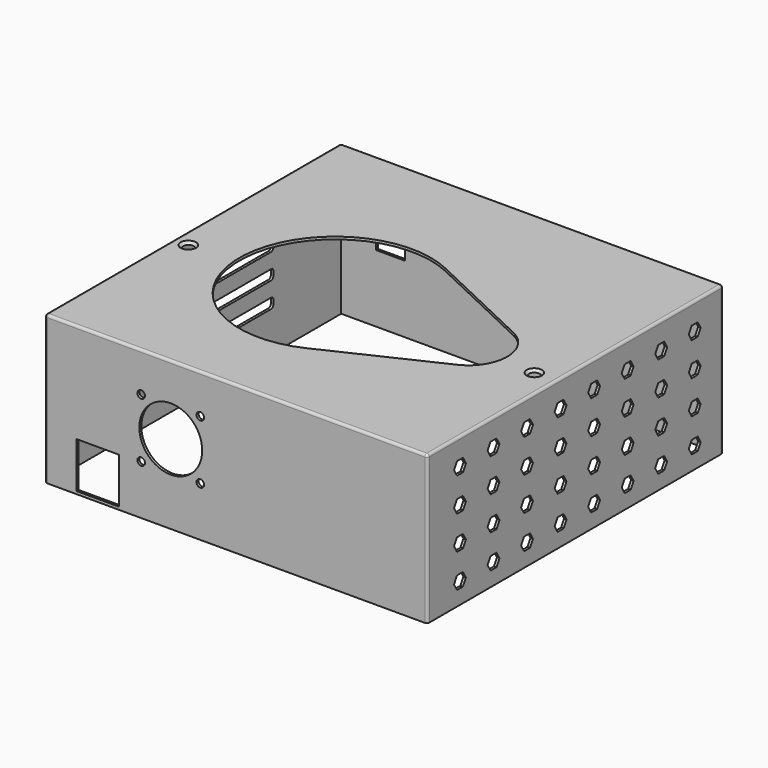
from build123d import *

# Parameters (mm, degrees)
SKETCH010_W                         = 150.11055
SKETCH010_H                         = 145.080238
PAD012_DEPTH                        = 58
THICKNESS_T                         = 1
POCKET002_DEPTH                     = 5
HOLE_D                              = 3
HOLE_DEPTH                          = 22
HOLE_CSINK_D                        = 6.1
HOLE_CSINK_ANGLE                    = 90
HOLE_TIPS_R                         = 1.5
SKETCH014_W                         = 11.6
SKETCH014_H                         = 20.6
POCKET003_DEPTH                     = 5
SKETCH015_W                         = 16.920277
SKETCH015_H                         = 18.20471
POCKET004_DEPTH                     = 5
POCKET005_DEPTH                     = 5
SKETCH017_R                         = 1.5
SKETCH017_R_2                       = 12.5
POCKET006_DEPTH                     = 5
LINEARPATTERN_COUNT                 = 4
LINEARPATTERN_PITCH                 = 10
POCKET007_DEPTH                     = 5
POCKET007_LINEARPATTERN001_2_DEPTH  = 5
POCKET007_LINEARPATTERN001_3_DEPTH  = 5
POCKET007_LINEARPATTERN001_4_DEPTH  = 5
POCKET007_LINEARPATTERN001_5_DEPTH  = 5
POCKET007_LINEARPATTERN001_6_DEPTH  = 5
POCKET007_LINEARPATTERN001_7_DEPTH  = 5
POCKET007_LINEARPATTERN001_8_DEPTH  = 5
POCKET007_LINEARPATTERN001_9_DEPTH  = 5
POCKET007_LINEARPATTERN001_10_DEPTH = 5
LINEARPATTERN002_COUNT              = 4
LINEARPATTERN002_PITCH              = 13.333333


with BuildPart() as part:
    # Sketch010 → Pad012 (new body)
    with BuildSketch(Plane.XY):
        with Locations((11.039055, 0.010464)):
            Rectangle(SKETCH010_W, SKETCH010_H)
    extrude(amount=PAD012_DEPTH)

    # Thickness
    thickness_openings = [part.faces().sort_by_distance(p)[0] for p in [
        (11.039055, 0.010464, 0),
    ]]
    offset(amount=THICKNESS_T, openings=thickness_openings)

    # Sketch011 (on Face17 of Thickness) → Pocket002 (cut)
    with BuildSketch(Plane.XY.offset(59)):
        with BuildLine():
            ThreePointArc((12.940294, 28.126467), (-41.393971, -6.294822), (12.940294, -40.716111))
            Line((12.940294, -40.716111), (57.289465, -19.761176))
            ThreePointArc((57.289465, -19.761176), (65.087288, -6.294822), (57.289465, 7.171533))
            Line((12.940294, 28.126467), (57.289465, 7.171533))
        make_face()
    extrude(amount=-POCKET002_DEPTH, mode=Mode.SUBTRACT)

    # Hole
    with Locations(Plane.XY.offset(59)):
        with Locations((-59.108097, -9.545128), (78.403336, -9.46573)):
            CounterSinkHole(HOLE_D / 2, HOLE_CSINK_D / 2, depth=HOLE_DEPTH, counter_sink_angle=HOLE_CSINK_ANGLE)

    # Hole tips → Hole tip 1 section 0
    with BuildSketch(Plane.XY.offset(37), mode=Mode.PRIVATE) as hole_tip_1_s0:
        with Locations((-59.108097, -9.545128)):
            Circle(HOLE_TIPS_R)
    loft([hole_tip_1_s0.sketch, Vertex(-59.108097, -9.545128, 36.098709)], mode=Mode.SUBTRACT)

    # Hole tips → Hole tip 2 section 0
    with BuildSketch(Plane.XY.offset(37), mode=Mode.PRIVATE) as hole_tip_2_s0:
        with Locations((78.403336, -9.46573)):
            Circle(HOLE_TIPS_R)
    loft([hole_tip_2_s0.sketch, Vertex(78.403336, -9.46573, 36.098709)], mode=Mode.SUBTRACT)

    # Sketch014 (on Face9 of Hole) → Pocket003 (cut)
    with BuildSketch(Plane(origin=(0, 73.550583, 0), x_dir=(-1, 0, 0), z_dir=(0, 1, 0))):
        with Locations((44.445344, 37.089711)):
            Rectangle(SKETCH014_W, SKETCH014_H)
    extrude(amount=-POCKET003_DEPTH, mode=Mode.SUBTRACT)

    # Sketch015 (on Face17 of Pocket003) → Pocket004 (cut)
    with BuildSketch(Plane.XZ.offset(73.529655)):
        with Locations((-43.933248, 10.196591)):
            Rectangle(SKETCH015_W, SKETCH015_H)
    extrude(amount=-POCKET004_DEPTH, mode=Mode.SUBTRACT)

    # Sketch016 (on Face15 of Pocket004) → Pocket005 (cut)
    with BuildSketch(Plane(origin=(-65.01622, 0, 0), x_dir=(0, -1, 0), z_dir=(-1, 0, 0))):
        with BuildLine():
            Line((-37.794556, 49.801376), (38.410975, 49.801376))
            ThreePointArc((39.206841, 49.00551), (38.973737, 49.568272), (38.410975, 49.801376))
            Line((39.206841, 49.00551), (39.206841, 46.84153))
            ThreePointArc((38.166687, 45.801376), (38.902187, 46.10603), (39.206841, 46.84153))
            Line((38.166687, 45.801376), (-37.62831, 45.801376))
            ThreePointArc((-38.851208, 47.024274), (-38.493029, 46.159554), (-37.62831, 45.801376))
            Line((-38.851208, 47.024274), (-38.851208, 48.744724))
            ThreePointArc((-37.794556, 49.801376), (-38.541722, 49.49189), (-38.851208, 48.744724))
        make_face()
    pocket005 = extrude(amount=-POCKET005_DEPTH, mode=Mode.SUBTRACT)

    # Sketch017 → Pocket006 (cut)
    with BuildSketch(Plane.XZ.offset(73.529655)):
        with Locations((-26.672011, 43.27084)):
            Circle(SKETCH017_R)
        with Locations((-3.172011, 43.27084)):
            Circle(SKETCH017_R)
        with Locations((-26.672011, 19.77084)):
            Circle(SKETCH017_R)
        with Locations((-3.172011, 19.77084)):
            Circle(SKETCH017_R)
        with Locations((-14.922011, 31.52084)):
            Circle(SKETCH017_R_2)
    extrude(amount=-POCKET006_DEPTH, mode=Mode.SUBTRACT)

    # LinearPattern: Pocket005 ×4
    with Locations(*[(0, 0, -i * LINEARPATTERN_PITCH) for i in range(1, LINEARPATTERN_COUNT)]):
        add(pocket005, mode=Mode.SUBTRACT)

    # Sketch018 (on Face43 of MultiTransform) → Pocket007 (cut)
    with BuildSketch(Plane.YZ.offset(87.09433)):
        Polygon((-55.811546, 45.813801), (-54.333573, 48.373726), (-55.811546, 50.933651), (-58.767494, 50.933651), (-60.245467, 48.373726), (-58.767494, 45.813801), align=None)
    pocket007 = extrude(amount=-POCKET007_DEPTH, mode=Mode.SUBTRACT)

    # Sketch018 LinearPattern001 2 → Pocket007 LinearPattern001 2 (cut)
    with BuildSketch(Plane(origin=(87.09433, 16.666667, 0), x_dir=(0, 1, 0), z_dir=(1, 0, 0))):
        Polygon((-55.811546, 45.813801), (-54.333573, 48.373726), (-55.811546, 50.933651), (-58.767494, 50.933651), (-60.245467, 48.373726), (-58.767494, 45.813801), align=None)
    pocket007_linearpattern001_2 = extrude(amount=-POCKET007_LINEARPATTERN001_2_DEPTH, mode=Mode.SUBTRACT)

    # Sketch018 LinearPattern001 3 → Pocket007 LinearPattern001 3 (cut)
    with BuildSketch(Plane(origin=(87.09433, 33.333333, 0), x_dir=(0, 1, 0), z_dir=(1, 0, 0))):
        Polygon((-55.811546, 45.813801), (-54.333573, 48.373726), (-55.811546, 50.933651), (-58.767494, 50.933651), (-60.245467, 48.373726), (-58.767494, 45.813801), align=None)
    pocket007_linearpattern001_3 = extrude(amount=-POCKET007_LINEARPATTERN001_3_DEPTH, mode=Mode.SUBTRACT)

    # Sketch018 LinearPattern001 4 → Pocket007 LinearPattern001 4 (cut)
    with BuildSketch(Plane(origin=(87.09433, 50, 0), x_dir=(0, 1, 0), z_dir=(1, 0, 0))):
        Polygon((-55.811546, 45.813801), (-54.333573, 48.373726), (-55.811546, 50.933651), (-58.767494, 50.933651), (-60.245467, 48.373726), (-58.767494, 45.813801), align=None)
    pocket007_linearpattern001_4 = extrude(amount=-POCKET007_LINEARPATTERN001_4_DEPTH, mode=Mode.SUBTRACT)

    # Sketch018 LinearPattern001 5 → Pocket007 LinearPattern001 5 (cut)
    with BuildSketch(Plane(origin=(87.09433, 66.666667, 0), x_dir=(0, 1, 0), z_dir=(1, 0, 0))):
        Polygon((-55.811546, 45.813801), (-54.333573, 48.373726), (-55.811546, 50.933651), (-58.767494, 50.933651), (-60.245467, 48.373726), (-58.767494, 45.813801), align=None)
    pocket007_linearpattern001_5 = extrude(amount=-POCKET007_LINEARPATTERN001_5_DEPTH, mode=Mode.SUBTRACT)

    # Sketch018 LinearPattern001 6 → Pocket007 LinearPattern001 6 (cut)
    with BuildSketch(Plane(origin=(87.09433, 83.333333, 0), x_dir=(0, 1, 0), z_dir=(1, 0, 0))):
        Polygon((-55.811546, 45.813801), (-54.333573, 48.373726), (-55.811546, 50.933651), (-58.767494, 50.933651), (-60.245467, 48.373726), (-58.767494, 45.813801), align=None)
    pocket007_linearpattern001_6 = extrude(amount=-POCKET007_LINEARPATTERN001_6_DEPTH, mode=Mode.SUBTRACT)

    # Sketch018 LinearPattern001 7 → Pocket007 LinearPattern001 7 (cut)
    with BuildSketch(Plane(origin=(87.09433, 100, 0), x_dir=(0, 1, 0), z_dir=(1, 0, 0))):
        Polygon((-55.811546, 45.813801), (-54.333573, 48.373726), (-55.811546, 50.933651), (-58.767494, 50.933651), (-60.245467, 48.373726), (-58.767494, 45.813801), align=None)
    pocket007_linearpattern001_7 = extrude(amount=-POCKET007_LINEARPATTERN001_7_DEPTH, mode=Mode.SUBTRACT)

    # Sketch018 LinearPattern001 8 → Pocket007 LinearPattern001 8 (cut)
    with BuildSketch(Plane(origin=(87.09433, 116.666667, 0), x_dir=(0, 1, 0), z_dir=(1, 0, 0))):
        Polygon((-55.811546, 45.813801), (-54.333573, 48.373726), (-55.811546, 50.933651), (-58.767494, 50.933651), (-60.245467, 48.373726), (-58.767494, 45.813801), align=None)
    pocket007_linearpattern001_8 = extrude(amount=-POCKET007_LINEARPATTERN001_8_DEPTH, mode=Mode.SUBTRACT)

    # Sketch018 LinearPattern001 9 → Pocket007 LinearPattern001 9 (cut)
    with BuildSketch(Plane(origin=(87.09433, 133.333333, 0), x_dir=(0, 1, 0), z_dir=(1, 0, 0))):
        Polygon((-55.811546, 45.813801), (-54.333573, 48.373726), (-55.811546, 50.933651), (-58.767494, 50.933651), (-60.245467, 48.373726), (-58.767494, 45.813801), align=None)
    pocket007_linearpattern001_9 = extrude(amount=-POCKET007_LINEARPATTERN001_9_DEPTH, mode=Mode.SUBTRACT)

    # Sketch018 LinearPattern001 10 → Pocket007 LinearPattern001 10 (cut)
    with BuildSketch(Plane(origin=(87.09433, 150, 0), x_dir=(0, 1, 0), z_dir=(1, 0, 0))):
        Polygon((-55.811546, 45.813801), (-54.333573, 48.373726), (-55.811546, 50.933651), (-58.767494, 50.933651), (-60.245467, 48.373726), (-58.767494, 45.813801), align=None)
    pocket007_linearpattern001_10 = extrude(amount=-POCKET007_LINEARPATTERN001_10_DEPTH, mode=Mode.SUBTRACT)

    # LinearPattern002: Pocket007, Pocket007 LinearPattern001 2, Pocket007 LinearPattern001 3, Pocket007 LinearPattern001 4, Pocket007 LinearPattern001 5, Pocket007 LinearPattern001 6, Pocket007 LinearPattern001 7, Pocket007 LinearPattern001 8, Pocket007 LinearPattern001 9, Pocket007 LinearPattern001 10 ×4
    with Locations(*[(0, 0, -i * LINEARPATTERN002_PITCH) for i in range(1, LINEARPATTERN002_COUNT)]):
        add(pocket007, mode=Mode.SUBTRACT)
        add(pocket007_linearpattern001_2, mode=Mode.SUBTRACT)
        add(pocket007_linearpattern001_3, mode=Mode.SUBTRACT)
        add(pocket007_linearpattern001_4, mode=Mode.SUBTRACT)
        add(pocket007_linearpattern001_5, mode=Mode.SUBTRACT)
        add(pocket007_linearpattern001_6, mode=Mode.SUBTRACT)
        add(pocket007_linearpattern001_7, mode=Mode.SUBTRACT)
        add(pocket007_linearpattern001_8, mode=Mode.SUBTRACT)
        add(pocket007_linearpattern001_9, mode=Mode.SUBTRACT)
        add(pocket007_linearpattern001_10, mode=Mode.SUBTRACT)


solid = part.part
